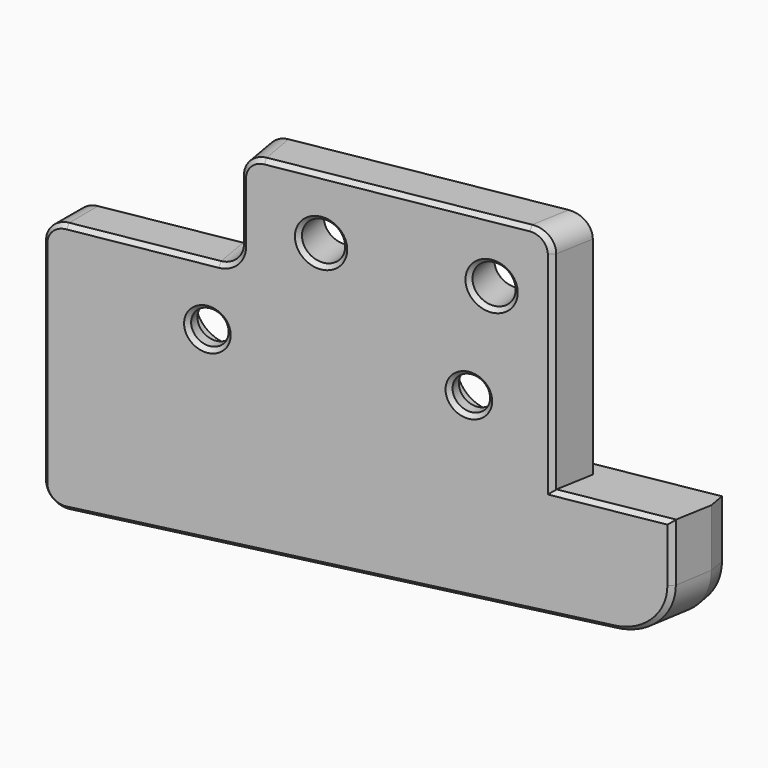
from build123d import *

# Parameters (mm, degrees)
PAD009_DEPTH    = 35
POCKET007_DEPTH = 22.5
SKETCH018_R     = 1.65
SKETCH018_R_2   = 1.9
SKETCH018_W     = 18
SKETCH018_H     = 10
POCKET008_DEPTH = 15.5632805046
SKETCH019_R     = 3.2
POCKET009_DEPTH = 4.5
SKETCH020_W     = 60
SKETCH020_H     = 22.5
POCKET010_DEPTH = 2
FILLET006_R     = 2
FILLET007_R     = 5
CHAMFER010_SIZE = 0.4


with BuildPart() as part:
    # Sketch016 → Pad009 (new body)
    with BuildSketch(Plane.XY):
        Polygon((-44, 51), (10.5, 60.6098204486), (11.5919107028, 66.802353766), (-44, 57), align=None)
    extrude(amount=-PAD009_DEPTH)

    # Sketch017 (on Face5 of Pad009) → Pocket007 (cut)
    with BuildSketch(Plane.XY):
        Polygon((1.244939581, 65.0604032122), (0, 58), (11, 59.9395967878), (12.244939581, 67), align=None)
    extrude(amount=-POCKET007_DEPTH, mode=Mode.SUBTRACT)

    # Sketch018 (on Face8 of Pocket007) → Pocket008 (cut, through all)
    with BuildSketch(Plane(origin=(-11.0743364275, 62.8056828456, 0), x_dir=(-0.984807753, -0.1736481777, 0), z_dir=(-0.1736481777, 0.984807753, 0))):
        with Locations((-3, -16)):
            Circle(SKETCH018_R)
        with Locations((20, -16)):
            Circle(SKETCH018_R)
        with Locations((-5, -6)):
            Circle(SKETCH018_R_2)
        with Locations((10, -6)):
            Circle(SKETCH018_R_2)
        Polygon((-24, -22), (-24, -35), (35, -35), (-22.25, -33), (-22.25, -22), align=None)
        with Locations((26, -5)):
            Rectangle(SKETCH018_W, SKETCH018_H)
    extrude(amount=-POCKET008_DEPTH, mode=Mode.SUBTRACT)

    # Sketch019 (on Face14 of Pocket008) → Pocket009 (cut)
    with BuildSketch(Plane(origin=(-11.0743364275, 62.8056828456, 0), x_dir=(-0.984807753, -0.1736481777, 0), z_dir=(-0.1736481777, 0.984807753, 0))):
        with Locations((-3, -16)):
            Circle(SKETCH019_R)
        with Locations((20, -16)):
            Circle(SKETCH019_R)
    extrude(amount=-POCKET009_DEPTH, mode=Mode.SUBTRACT)

    # Sketch020 (on Face14 of Pocket009) → Pocket010 (cut)
    with BuildSketch(Plane(origin=(-11.0743364275, 62.8056828456, 0), x_dir=(-0.984807753, -0.1736481777, 0), z_dir=(-0.1736481777, 0.984807753, 0))):
        with Locations((5, -11.25)):
            Rectangle(SKETCH020_W, SKETCH020_H)
    extrude(amount=-POCKET010_DEPTH, mode=Mode.SUBTRACT)

    # Fillet006
    fillet006_edges = [part.edges().sort_by_distance(p)[0] for p in [
        (-27.12939, 55.959317, 0),
        (0.499178, 60.830979, 0),
        (-27.12939, 55.959317, -10),
        (-44, 52.984573, -10),
        (-44, 54, -34.963477),
    ]]
    fillet(fillet006_edges, radius=FILLET006_R)

    # Fillet007
    fillet007_edges = [part.edges().sort_by_distance(p)[0] for p in [
        (10.851524, 62.603411, -33.024187),
        (11.020342, 65.633179, -33),
    ]]
    fillet(fillet007_edges, radius=FILLET007_R)

    # Chamfer010
    chamfer010_edges = [part.edges().sort_by_distance(p)[0] for p in [
        (-17.922862, 61.598103, -34.020233),
        (9.455678, 66.425678, -31.64489),
        (-43.383978, 57.108621, -34.318434),
        (10.837636, 66.669355, -25.335811),
        (-44, 57, -27.687625),
        (6.033781, 65.822306, -22.5),
        (-21.385037, 60.987628, -22.5),
        (10.5, 60.60982, -25.354732),
        (8.970416, 60.340113, -31.746636),
        (5.319008, 59.696272, -22.5),
        (-18.249687, 55.540475, -34.068225),
        (0.138015, 58.782723, -12.25),
        (-43.383978, 51.108621, -34.354832),
        (-0.499087, 58.670385, -0.563998),
        (-44, 51, -22.455824),
        (-13.389199, 56.39751, 0),
        (-43.408791, 51.104246, -10.580385),
        (-26.213121, 54.136307, -0.585786),
        (-35.379812, 52.519972, -10),
        (-26.790008, 54.034586, -5),
        (-27.366895, 53.932865, -9.414214),
        (-28.119498, 53.800161, -16),
        (-5.46892, 57.794069, -16),
        (-18.025219, 55.580055, -6),
        (-3.253103, 58.184777, -6),
    ]]
    chamfer(chamfer010_edges, length=CHAMFER010_SIZE)


with BuildPart() as part_1:
    # Body004007 placement: moved
    add(part.part.moved(Location((0, 0, 22))))


solid = part_1.part
